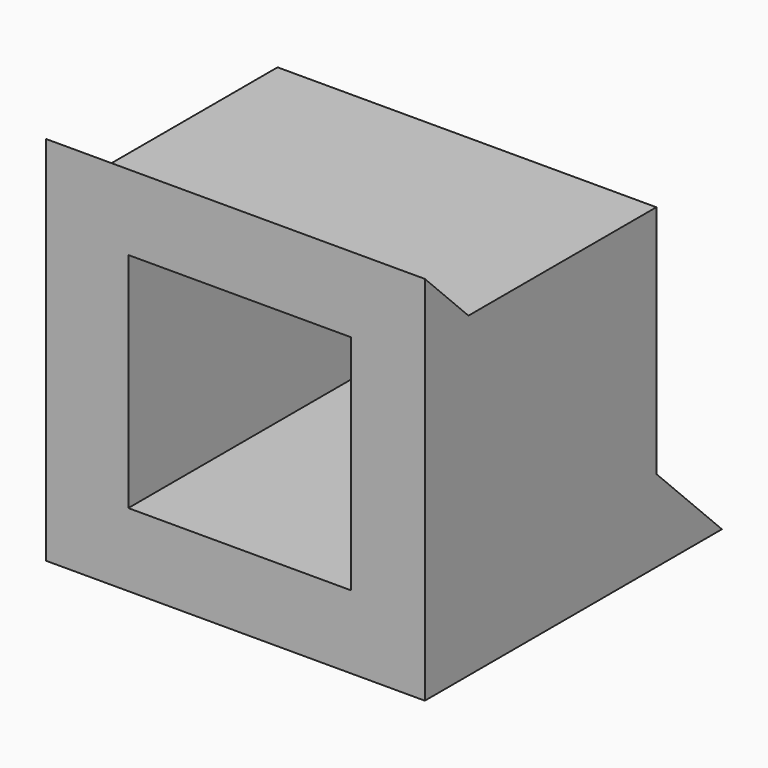
from build123d import *

# Parameters (mm, degrees)
F0_W     = 1270
F0_H     = 1270
F0_W_2   = 762
F0_H_2   = 762
F1_DEPTH = 1270
F3_W     = 762
F3_H     = 762
F4_DEPTH = 12.7
F5_DEPTH = 1270.001
F6_DEPTH = 25.4


with BuildPart() as f1:
    # F0 (on Front) → F1 (new body)
    with BuildSketch(Plane.XZ):
        with Locations((635, 635)):
            Rectangle(F0_W, F0_H)
        with Locations((636.763900746, 631.1829624176)):
            Rectangle(F0_W_2, F0_H_2, mode=Mode.SUBTRACT)
    extrude(amount=F1_DEPTH)

    # F3 (on face) → F4 (cut, symmetric)
    with BuildSketch(Plane.XY.offset(1270)):
        with Locations((615.9371882677, -549.7496393476)):
            Rectangle(F3_W, F3_H)
    extrude(amount=F4_DEPTH, both=True, mode=Mode.SUBTRACT)

    # F2 (on face) → F5 (cut, through all)
    with BuildSketch(Plane.YZ.offset(1270)):
        Polygon((0, 1270), (-1270, 1270), (-1083.5376977921, 1083.5376977921), (-280.4070115089, 1083.5376977921), (-280.4070115089, 280.4070115089), (0, 0), align=None)
    extrude(amount=-F5_DEPTH, mode=Mode.SUBTRACT)

    # F6 (add): a face of the model
    f6_faces = [f1.faces().sort_by_distance(p)[0] for p in [
        (0, -761.3801568412, 535.4569952832),
    ]]
    extrude(f6_faces, amount=F6_DEPTH)


solid = f1.part
